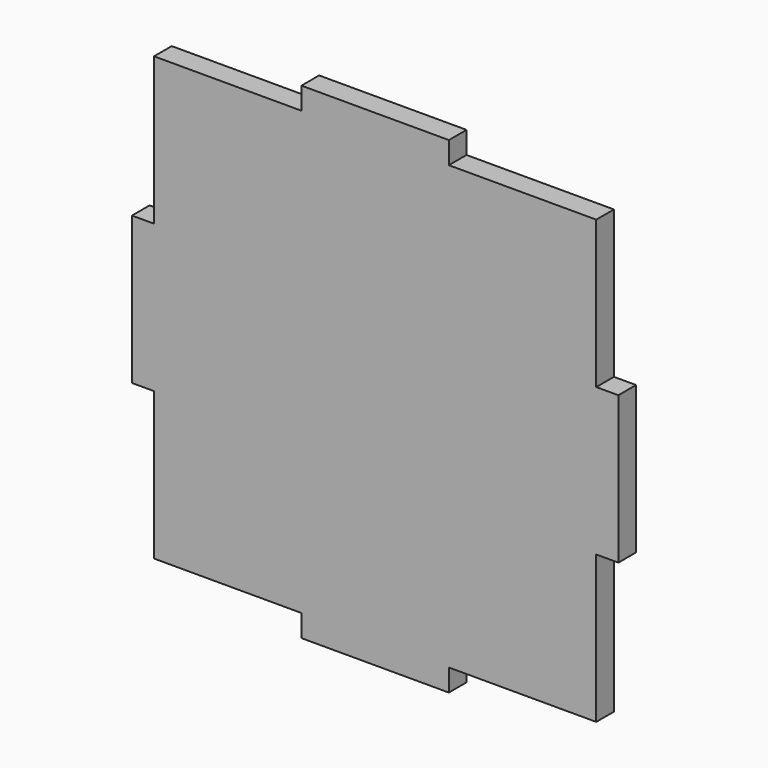
from build123d import *

# Parameters (mm, degrees)
F1_DEPTH = 3


with BuildPart() as f1:
    # F0 (on Front) → F1 (new body)
    with BuildSketch(Plane.XZ):
        Polygon((-33, 10), (-33, 0), (-33, -10), (-30, -10), (-30, -30), (-10, -30), (-10, -33), (0, -33), (10, -33), (10, -30), (30, -30), (30, -10), (33, -10), (33, 0), (33, 10), (30, 10), (30, 30), (10, 30), (10, 33), (0, 33), (-10, 33), (-10, 30), (-30, 30), (-30, 10), align=None)
    extrude(amount=F1_DEPTH)


solid = f1.part
